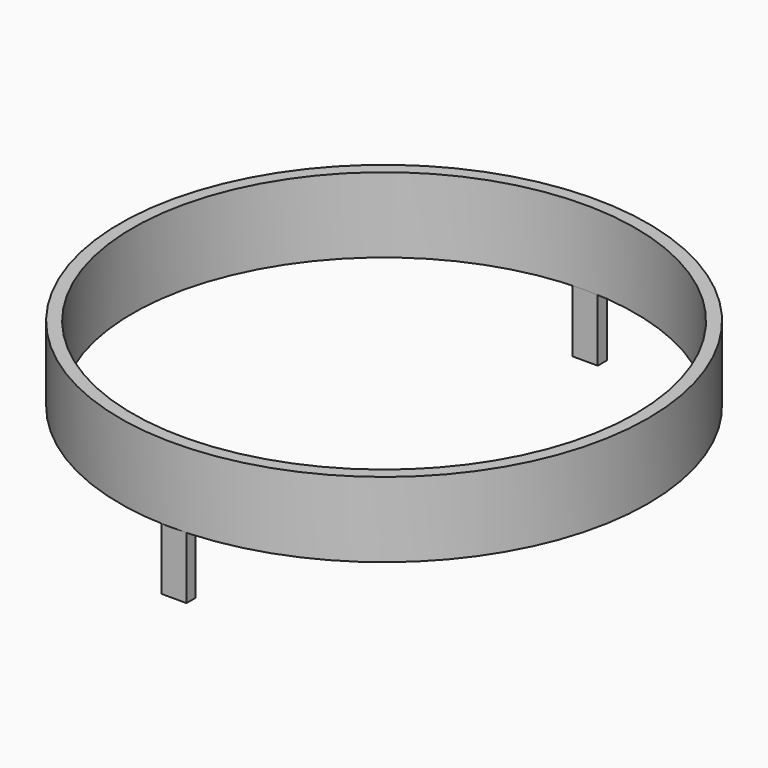
from build123d import *

# Parameters (mm, degrees)
F0_R     = 10.55
F0_R_2   = 10.05
F1_DEPTH = 3
F4_DEPTH = 2.5
F2_W     = 1
F2_H     = 0.45
F5_DEPTH = 2.5


with BuildPart() as f1:
    # F0 (on Top) → F1 (new body)
    with BuildSketch(Plane.XY):
        Circle(F0_R)
        Circle(F0_R_2, mode=Mode.SUBTRACT)
    extrude(amount=F1_DEPTH)

    # F3 (on face) → F4 (join)
    with BuildSketch(Plane(origin=(0, 0, 0), x_dir=(1, 0, 0), z_dir=(0, 0, -1))):
        Polygon((0, 10.05), (0.5, 10.05), (0.5, 10.5), (-0.5, 10.5), (-0.5, 10.05), align=None)
    extrude(amount=F4_DEPTH)

    # F2 (on Top) → F5 (join)
    with BuildSketch(Plane.XY):
        with Locations((0, 10.275)):
            Rectangle(F2_W, F2_H)
    extrude(amount=-F5_DEPTH)


solid = f1.part
